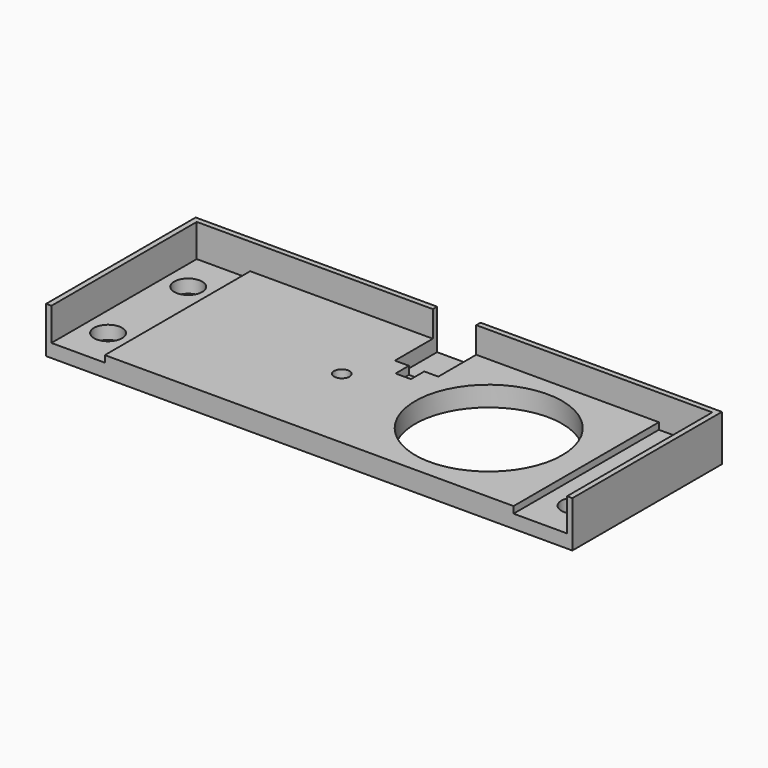
from build123d import *

# Parameters (mm, degrees)
SKETCH_W        = 78.8
SKETCH_H        = 28
PAD_DEPTH       = 3
SKETCH001_R     = 11
POCKET_DEPTH    = 3.9
SKETCH002_W     = 0.8
SKETCH002_H     = 28
PAD001_DEPTH    = 3.9
SKETCH003_W     = 77.2
SKETCH003_H     = 0.8
PAD002_DEPTH    = 3.9
SKETCH004_W     = 8
SKETCH004_H     = 27.2
POCKET001_DEPTH = 1
SKETCH005_R     = 2.1
POCKET002_DEPTH = 5
SKETCH006_W     = 6
SKETCH006_H     = 6
PAD003_DEPTH    = 6.5
SKETCH007_R     = 1.15
POCKET003_DEPTH = 10
SKETCH008_R     = 1.4
POCKET004_DEPTH = 6
SKETCH009_W     = 2.3
SKETCH009_H     = 2.5
POCKET005_DEPTH = 1.2
SKETCH011_W     = 6.5
SKETCH011_H     = 8
POCKET006_DEPTH = 6


with BuildPart() as part:
    # Sketch → Pad (new body)
    with BuildSketch(Plane.XY):
        with Locations((0, 0.4)):
            Rectangle(SKETCH_W, SKETCH_H)
    extrude(amount=PAD_DEPTH)

    # Sketch001 (on Face6 of Pad) → Pocket (cut)
    with BuildSketch(Plane.XY.offset(3)):
        with Locations((16, 0)):
            Circle(SKETCH001_R)
    extrude(amount=-POCKET_DEPTH, mode=Mode.SUBTRACT)

    # Sketch002 (on Face5 of Pocket) → Pad001 (join)
    with BuildSketch(Plane.XY.offset(3)):
        with Locations((39, 0.4)):
            Rectangle(SKETCH002_W, SKETCH002_H)
        with Locations((-39, 0.4)):
            Rectangle(SKETCH002_W, SKETCH002_H)
    extrude(amount=PAD001_DEPTH)

    # Sketch003 (on Face6 of Pad001) → Pad002 (join)
    with BuildSketch(Plane.XY.offset(3)):
        with Locations((0, 14)):
            Rectangle(SKETCH003_W, SKETCH003_H)
    extrude(amount=PAD002_DEPTH)

    # Sketch004 (on Face16 of Pad002) → Pocket001 (cut)
    with BuildSketch(Plane.XY.offset(3)):
        with Locations((34.6, 0)):
            Rectangle(SKETCH004_W, SKETCH004_H)
        with Locations((-34.6, 0)):
            Rectangle(SKETCH004_W, SKETCH004_H)
    extrude(amount=-POCKET001_DEPTH, mode=Mode.SUBTRACT)

    # Sketch005 (on Face19 of Pocket001) → Pocket002 (cut)
    with BuildSketch(Plane.XY.offset(3)):
        with Locations((35, 7.5)):
            Circle(SKETCH005_R)
        with Locations((35, -7.5)):
            Circle(SKETCH005_R)
        with Locations((-35, 7.5)):
            Circle(SKETCH005_R)
        with Locations((-35, -7.5)):
            Circle(SKETCH005_R)
    extrude(amount=-POCKET002_DEPTH, mode=Mode.SUBTRACT)

    # Sketch006 (on Face4 of Pocket002) → Pad003 (join)
    with BuildSketch(Plane(origin=(0, 0, 0), x_dir=(1, 0, 0), z_dir=(0, 0, -1))):
        with Locations((-6, 0)):
            Rectangle(SKETCH006_W, SKETCH006_H)
    extrude(amount=PAD003_DEPTH)

    # Sketch007 (on Face32 of Pad003) → Pocket003 (cut)
    with BuildSketch(Plane(origin=(0, 0, -6.5), x_dir=(1, 0, 0), z_dir=(0, 0, -1))):
        with Locations((-6, 0)):
            Circle(SKETCH007_R)
    extrude(amount=-POCKET003_DEPTH, mode=Mode.SUBTRACT)

    # Sketch008 (on Face15 of Pocket003) → Pocket004 (cut)
    with BuildSketch(Plane.XZ.offset(3)):
        with Locations((-6, -3.25)):
            Circle(SKETCH008_R)
    extrude(amount=-POCKET004_DEPTH, mode=Mode.SUBTRACT)

    # Sketch009 (on Face27 of Pocket004) → Pocket005 (cut)
    with BuildSketch(Plane.XY.offset(3)):
        with Locations((0, 5.25)):
            Rectangle(SKETCH009_W, SKETCH009_H)
    extrude(amount=-POCKET005_DEPTH, mode=Mode.SUBTRACT)

    # Sketch011 (on Face21 of Pocket005) → Pocket006 (cut)
    with BuildSketch(Plane.XY.offset(6.9)):
        with Locations((0, 10.5)):
            Rectangle(SKETCH011_W, SKETCH011_H)
    extrude(amount=-POCKET006_DEPTH, mode=Mode.SUBTRACT)


solid = part.part
